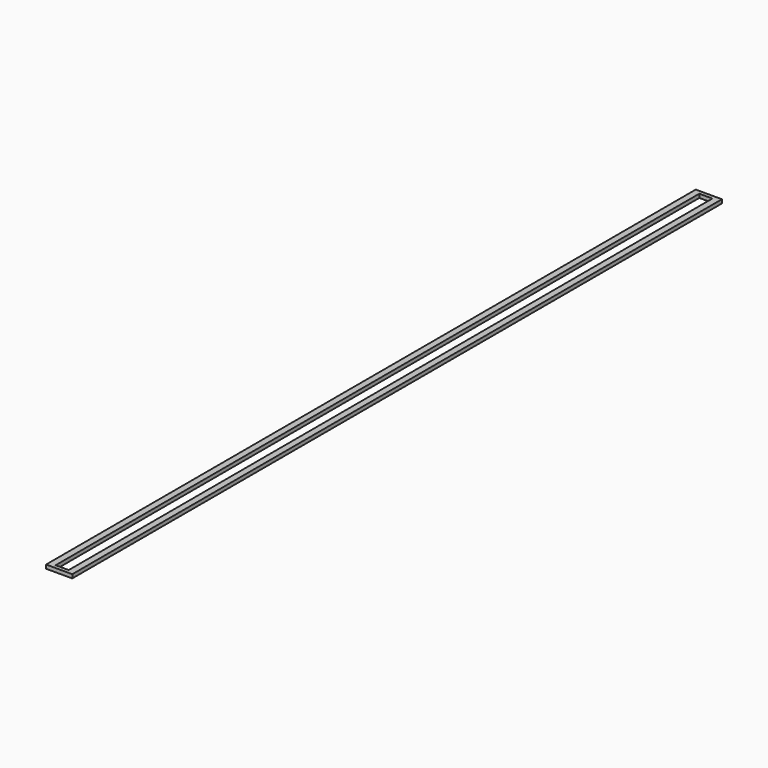
from build123d import *

# Parameters (mm, degrees)
F0_W     = 35
F0_H     = 4340
F1_DEPTH = 20
F2_W     = 70
F2_H     = 20
F4_DEPTH = 20
F3_W     = 70
F3_H     = 20
F5_DEPTH = 20


with BuildPart() as f1:
    # F0 (on Top) → F1 (new body)
    with BuildSketch(Plane.XY):
        with Locations((-52.5, 2170)):
            Rectangle(F0_W, F0_H)
        with Locations((52.5, 2170)):
            Rectangle(F0_W, F0_H)
    extrude(amount=F1_DEPTH)

    # F2 (on face) → F4 (join)
    with BuildSketch(Plane.XZ):
        with Locations((0, 10)):
            Rectangle(F2_W, F2_H)
    extrude(amount=-F4_DEPTH)

    # F3 (on face) → F5 (join)
    with BuildSketch(Plane(origin=(0, 4340, 0), x_dir=(-1, 0, 0), z_dir=(0, 1, 0))):
        with Locations((0, 10)):
            Rectangle(F3_W, F3_H)
    extrude(amount=-F5_DEPTH)


solid = f1.part
